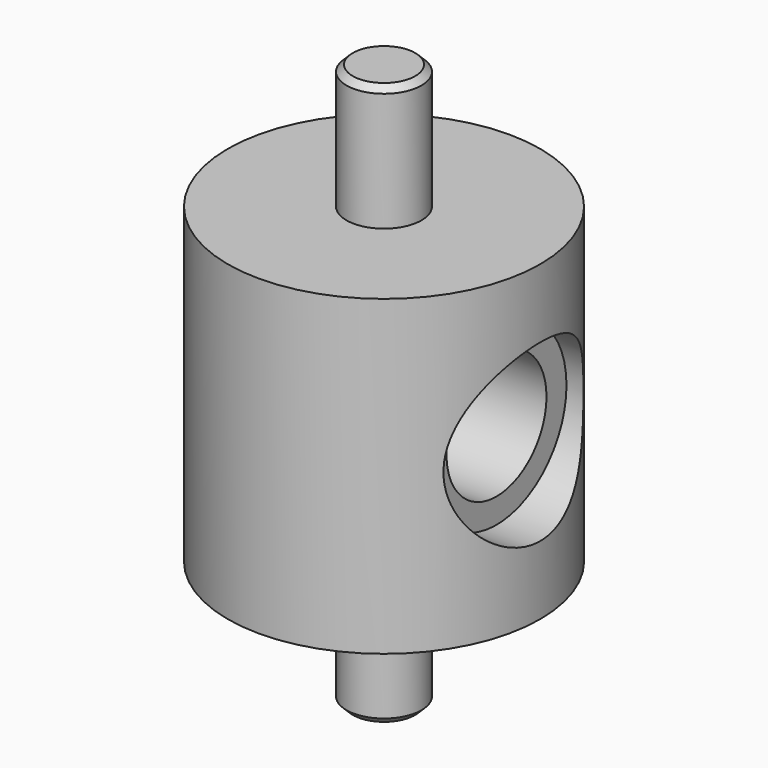
from build123d import *

# Parameters (mm, degrees)
F0_W     = 3
F0_H     = 10
F2_R     = 5
F3_DEPTH = 12.5
F5_START = 9
F4_R     = 7
F5_DEPTH = 5
F6_SIZE  = 0.5


with BuildPart() as f1:
    # F0 (on Right) → F1 (revolve)
    with BuildSketch(Plane.YZ):
        Polygon((3, 12.5), (0, 12.5), (0, -12.5), (3, -12.5), (12.5, -12.5), (12.5, -5), (12.5, 5), (12.5, 12.5), align=None)
        with Locations((1.5, 17.5)):
            Rectangle(F0_W, F0_H)
        with Locations((1.5, -17.5)):
            Rectangle(F0_W, F0_H)
    revolve(axis=Axis((0, 0, 0), (0, 0, -1)))

    # F2 (on Right) → F3 (cut, symmetric)
    with BuildSketch(Plane.YZ):
        Circle(F2_R)
    extrude(amount=F3_DEPTH, both=True, mode=Mode.SUBTRACT)

    # F4 (on Right) → F5 (cut)
    with BuildSketch(Plane.YZ.offset(F5_START)):
        Circle(F4_R)
    extrude(amount=F5_DEPTH, mode=Mode.SUBTRACT)

    # F6
    f6_edges = [f1.edges().sort_by_distance(p)[0] for p in [
        (0, -3, 22.5),
        (0, -3, -22.5),
    ]]
    chamfer(f6_edges, length=F6_SIZE)


solid = f1.part
